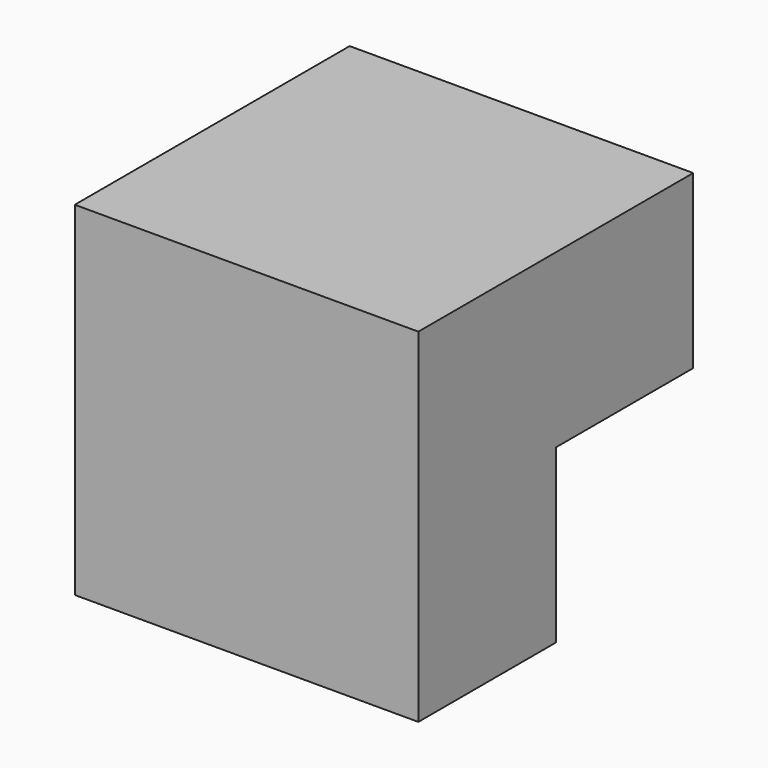
from build123d import *

# Parameters (mm, degrees)
F0_W     = 50.8
F0_H     = 50.8
F2_DEPTH = 50.8
F1_W     = 25.4
F1_H     = 25.4
F3_DEPTH = 25.4


with BuildPart() as f2:
    # F0 (on Front) → F2 (new body)
    with BuildSketch(Plane.XZ):
        with Locations((-25.4, 25.4)):
            Rectangle(F0_W, F0_H)
    extrude(amount=F2_DEPTH)

    # F1 (on face) → F3 (cut)
    with BuildSketch(Plane.XZ):
        with Locations((-12.7, 12.7)):
            Rectangle(F1_W, F1_H)
    extrude(amount=F3_DEPTH, mode=Mode.SUBTRACT)


solid = f2.part
